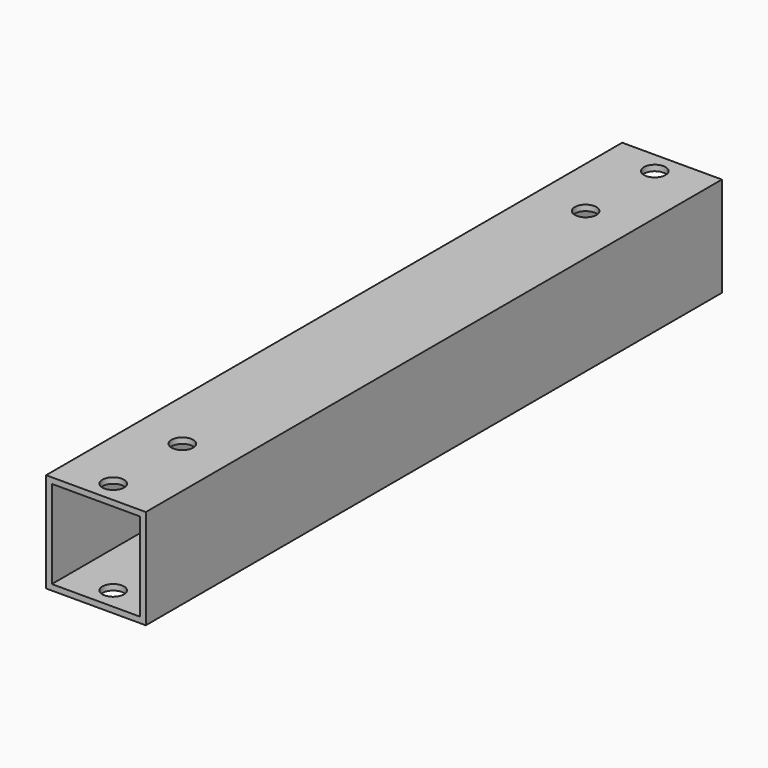
from build123d import *

# Parameters (mm, degrees)
F0_W     = 13.85
F0_H     = 13.85
F1_DEPTH = 100
F2_T     = -0.8
F3_R     = 1.5
F4_DEPTH = 25


with BuildPart() as f1:
    # F0 (on Front) → F1 (new body)
    with BuildSketch(Plane.XZ):
        with Locations((6.925, 6.925)):
            Rectangle(F0_W, F0_H)
    extrude(amount=F1_DEPTH)

    # F2
    f2_openings = [f1.faces().sort_by_distance(p)[0] for p in [
        (6.925, -100, 6.925),
        (6.925, 0, 6.925),
    ]]
    offset(amount=F2_T, openings=f2_openings)

    # F3 (on face) → F4 (cut)
    with BuildSketch(Plane.XY.offset(13.85)):
        with Locations((6.925, -97)):
            Circle(F3_R)
        with Locations((6.925, -85)):
            Circle(F3_R)
        with Locations((6.925, -15)):
            Circle(F3_R)
        with Locations((6.925, -3)):
            Circle(F3_R)
    extrude(amount=-F4_DEPTH, mode=Mode.SUBTRACT)


solid = f1.part
